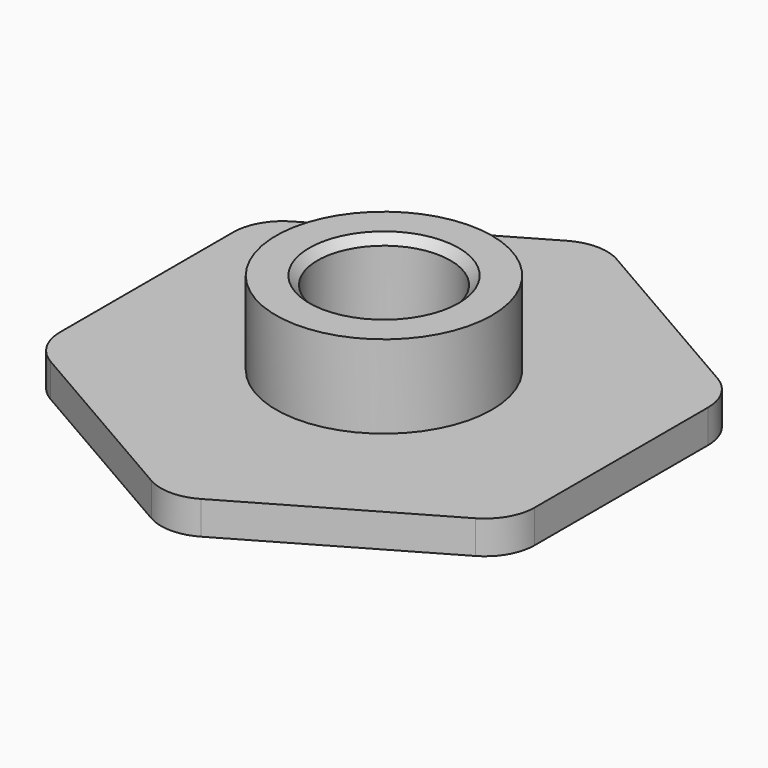
from build123d import *

# Parameters (mm, degrees)
SKETCH_R      = 4
PAD_DEPTH     = 2
SKETCH001_R   = 6.5
SKETCH001_R_2 = 4
PAD001_DEPTH  = 5
CHAMFER_SIZE  = 0.5
FILLET_R      = 3


with BuildPart() as part:
    # Sketch → Pad (new body)
    with BuildSketch(Plane.XY):
        Polygon((0, 16.5), (-14.289419, 8.25), (-14.289419, -8.25), (0, -16.5), (14.289419, -8.25), (14.289419, 8.25), align=None)
        Circle(SKETCH_R, mode=Mode.SUBTRACT)
    extrude(amount=PAD_DEPTH)

    # Sketch001 (on Face9 of Pad) → Pad001 (join)
    with BuildSketch(Plane.XY.offset(2)):
        Circle(SKETCH001_R)
        Circle(SKETCH001_R_2, mode=Mode.SUBTRACT)
    extrude(amount=PAD001_DEPTH)

    # Chamfer
    chamfer_edges = [part.edges().sort_by_distance(p)[0] for p in [
        (-4, 0, 7),
    ]]
    chamfer(chamfer_edges, length=CHAMFER_SIZE)

    # Fillet
    fillet_edges = [part.edges().sort_by_distance(p)[0] for p in [
        (0, -16.5, 1),
        (14.289419, -8.25, 1),
        (14.289419, 8.25, 1),
        (-14.289419, -8.25, 1),
        (-14.289419, 8.25, 1),
        (0, 16.5, 1),
    ]]
    fillet(fillet_edges, radius=FILLET_R)


solid = part.part
